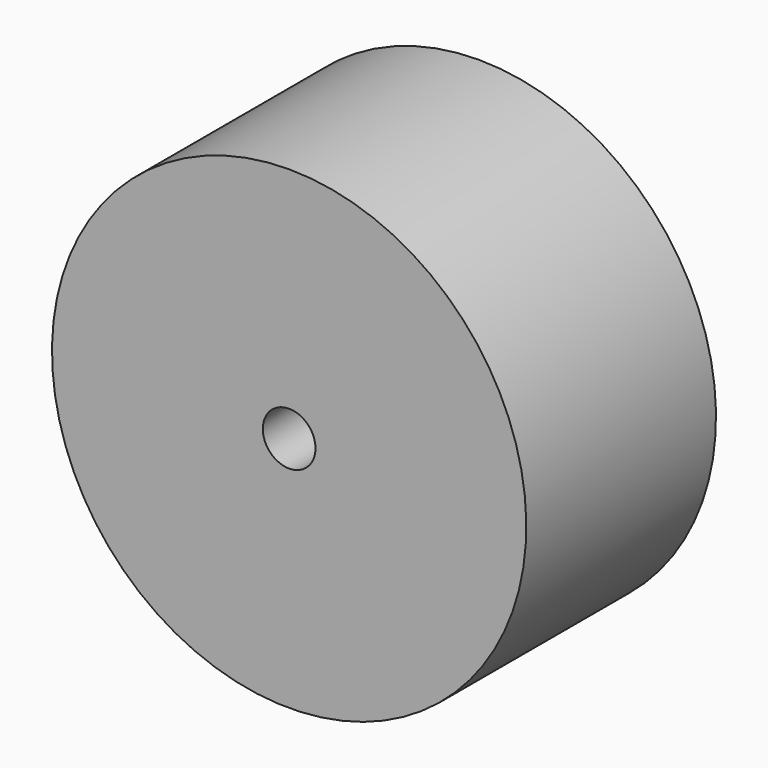
from build123d import *

# Parameters (mm, degrees)
F3_R     = 2
F4_DEPTH = 25


with BuildPart() as f2:
    # F0 (on Right) → F2 (revolve)
    with BuildSketch(Plane.YZ):
        Polygon((0, 18), (0, 0), (8, 0), (8, 4.5), (3, 4.5), (3, 13), (18, 13), (18, 18), align=None)
    revolve(axis=Axis((0, -0.950184, 0), (0, 1, 0)))

    # F3 (on face) → F4 (cut)
    with BuildSketch(Plane(origin=(0, 8, 0), x_dir=(-1, 0, 0), z_dir=(0, 1, 0))):
        Circle(F3_R)
    extrude(amount=-F4_DEPTH, mode=Mode.SUBTRACT)


solid = f2.part
